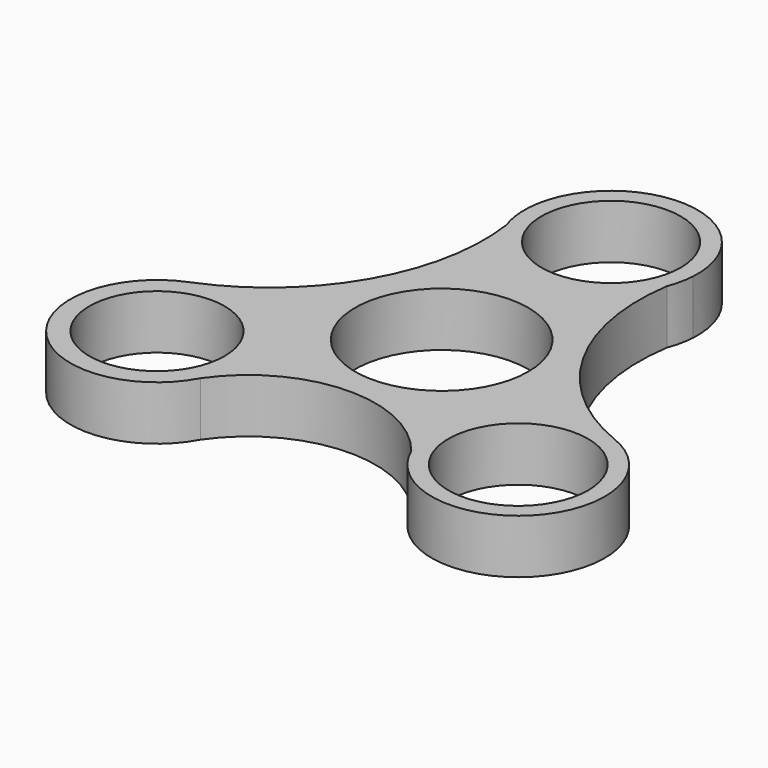
from build123d import *

# Parameters (mm, degrees)
F0_R     = 8.748743
F0_R_2   = 9.032553
F0_R_3   = 11.2
F0_R_4   = 9.0028
F1_DEPTH = 7


with BuildPart() as f1:
    # F0 (on Top) → F1 (new body)
    with BuildSketch(Plane.XY):
        with BuildLine():
            ThreePointArc((11.178943, 26.695394), (10.762369, 25.036023), (10.45059, 23.353811))
            ThreePointArc((10.45059, 23.353811), (10.943067, 24.996637), (11.178943, 26.695394))
        make_face()
        with BuildLine():
            ThreePointArc((-10.576557, 23.697235), (-10.836514, 25.204599), (-11.178943, 26.695394))
            ThreePointArc((-11.178943, 26.695394), (-10.980559, 25.175658), (-10.576557, 23.697235))
        make_face()
        with BuildLine():
            ThreePointArc((27.180357, -6.069851), (13.702991, 5.735114), (10.45059, 23.353811))
            ThreePointArc((10.45059, 23.353811), (10.762369, 25.036023), (11.178943, 26.695394))
            ThreePointArc((11.178943, 26.695394), (0, 38.581858), (-11.178943, 26.695394))
            ThreePointArc((-11.178943, 26.695394), (-10.836514, 25.204599), (-10.576557, 23.697235))
            ThreePointArc((-10.576557, 23.697235), (-13.997206, 5.854713), (-27.703453, -6.069851))
            ThreePointArc((-27.703453, -6.069851), (-31.997535, -23.940002), (-13.746279, -21.778267))
            ThreePointArc((-13.746279, -21.778267), (-0.683408, -14.633163), (12.811986, -20.923272))
            ThreePointArc((12.811986, -20.923272), (31.151847, -24.287939), (27.180357, -6.069851))
        make_face()
        with Locations((-23.624999, -16.500873)):
            Circle(F0_R, mode=Mode.SUBTRACT)
        with Locations((23.101903, -16.500873)):
            Circle(F0_R_2, mode=Mode.SUBTRACT)
        Circle(F0_R_3, mode=Mode.SUBTRACT)
        with Locations((0, 27.381858)):
            Circle(F0_R_4, mode=Mode.SUBTRACT)
    extrude(amount=F1_DEPTH)


solid = f1.part
